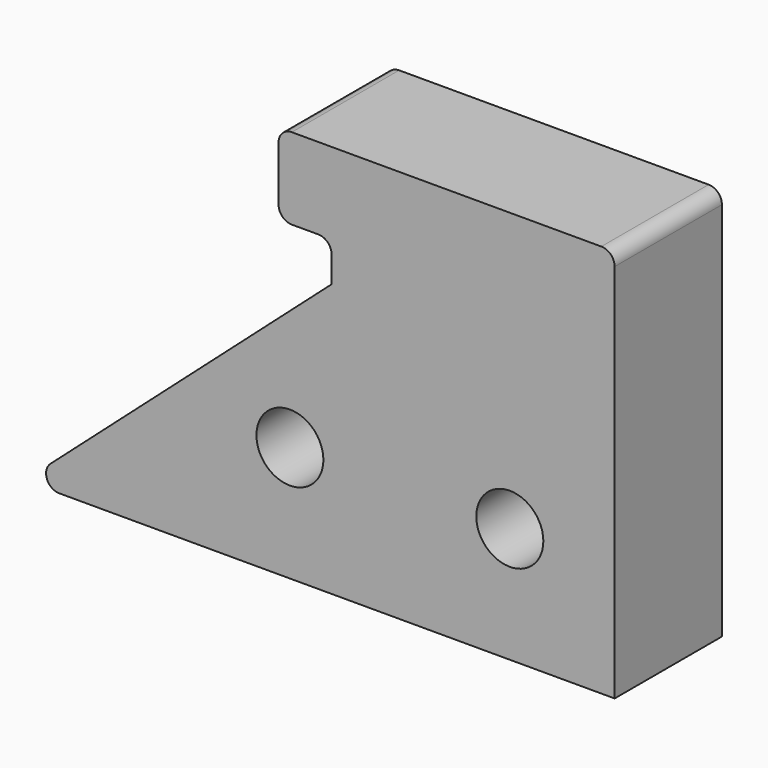
from build123d import *

# Parameters (mm, degrees)
F0_R     = 3.171559
F0_R_2   = 3.175
F1_DEPTH = 12.7


with BuildPart() as f1:
    # F0 (on Front) → F1 (new body)
    with BuildSketch(Plane.XZ):
        with BuildLine():
            ThreePointArc((-14.062528, -23.61262), (-14.404113, -25.001831), (-13.226608, -25.81428))
            Line((-13.226608, -25.81428), (39.363209, -25.81428))
            Line((39.363209, -25.81428), (39.363209, 10.198712))
            ThreePointArc((39.363209, 10.198712), (38.994304, 11.089326), (38.10369, 11.458231))
            Line((38.10369, 11.458231), (8.789854, 11.458231))
            ThreePointArc((8.789854, 11.458231), (7.899239, 11.089326), (7.530334, 10.198712))
            Line((7.530334, 10.198712), (7.530334, 5.011602))
            ThreePointArc((7.530334, 5.011602), (7.899239, 4.120987), (8.789854, 3.752082))
            Line((8.789854, 3.752082), (11.291068, 3.752082))
            ThreePointArc((11.291068, 3.752082), (12.181683, 3.383177), (12.550588, 2.492563))
            Line((12.550588, 2.492563), (12.550588, 0))
            Line((12.550588, 0), (-14.062528, -23.61262))
        make_face()
        with Locations((8.605811, -14.893295)):
            Circle(F0_R, mode=Mode.SUBTRACT)
        with Locations((29.43421, -14.893295)):
            Circle(F0_R_2, mode=Mode.SUBTRACT)
    extrude(amount=F1_DEPTH)


solid = f1.part
